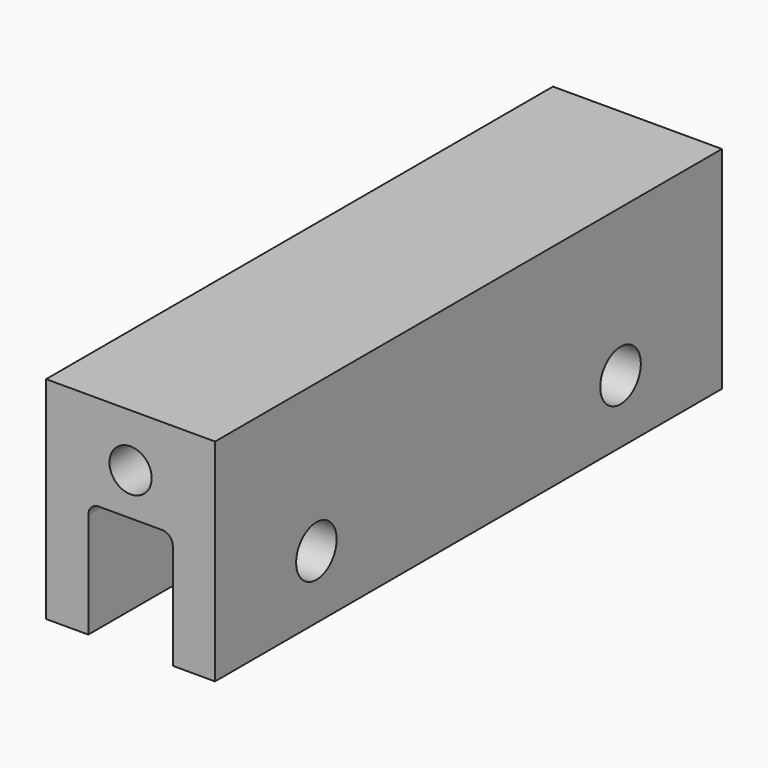
from build123d import *

# Parameters (mm, degrees)
F0_W          = 8
F0_H          = 10
F1_DEPTH      = 15
F1_DEPTH_BACK = 15
F2_R          = 1
F3_DEPTH      = 30.001
F5_DEPTH      = 30.001
F6_R          = 1.2
F7_DEPTH      = 8.001


with BuildPart() as f1:
    # F0 (on Front) → F1 (new body, two sides)
    with BuildSketch(Plane.XZ) as f1_sk:
        Rectangle(F0_W, F0_H)
    extrude(amount=F1_DEPTH)
    extrude(f1_sk.sketch, amount=-F1_DEPTH_BACK)

    # F2 (on face) → F3 (cut, through all)
    with BuildSketch(Plane.XZ.offset(15)):
        with Locations((0, 2.5)):
            Circle(F2_R)
    extrude(amount=-F3_DEPTH, mode=Mode.SUBTRACT)

    # F4 (on face) → F5 (cut, through all)
    with BuildSketch(Plane.XZ.offset(15)):
        with BuildLine():
            Line((-2, 0), (-2, -5))
            Line((-2, -5), (2, -5))
            Line((2, -5), (2, 0))
            ThreePointArc((2, 0), (1.853553, 0.353553), (1.5, 0.5))
            Line((1.5, 0.5), (-1.5, 0.5))
            ThreePointArc((-1.5, 0.5), (-1.853553, 0.353553), (-2, 0))
        make_face()
    extrude(amount=-F5_DEPTH, mode=Mode.SUBTRACT)

    # F6 (on face) → F7 (cut, through all)
    with BuildSketch(Plane.YZ.offset(4)):
        with Locations((-9, -2)):
            Circle(F6_R)
        with Locations((9, -2)):
            Circle(F6_R)
    extrude(amount=-F7_DEPTH, mode=Mode.SUBTRACT)


solid = f1.part
